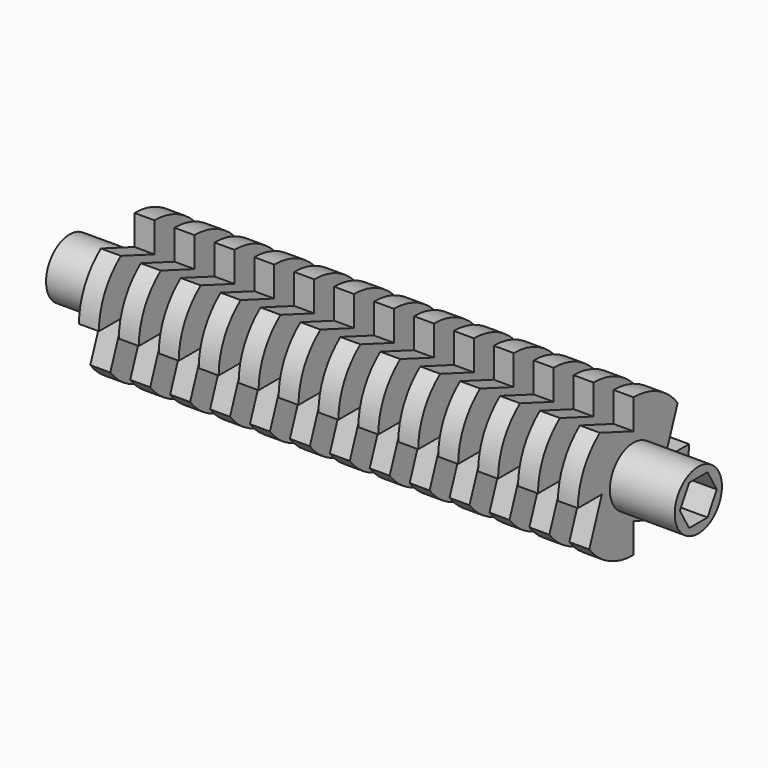
from build123d import *

# Parameters (mm, degrees)
F3_DEPTH = 25
F4_DEPTH = 250
F5_DEPTH = 22.8


with BuildPart() as f1:
    # F0 (on Top) → F1 (revolve)
    with BuildSketch(Plane.XY):
        Polygon((-41, 5.919), (-41, 0), (85, 0), (85, 5.911648), (72, 5.911648), (72, 13.919), (68, 13.919), (68, 5.919), (64, 5.919), (64, 13.919), (60, 13.919), (60, 5.919), (56, 5.919), (56, 13.919), (52, 13.919), (52, 5.919), (48, 5.919), (48, 13.919), (44, 13.919), (44, 5.919), (40, 5.919), (40, 13.919), (36, 13.919), (36, 5.919), (32, 5.919), (32, 13.919), (28, 13.919), (28, 5.919), (24, 5.919), (24, 13.919), (20, 13.919), (20, 5.919), (16, 5.919), (16, 13.919), (12, 13.919), (12, 5.919), (8, 5.919), (8, 13.919), (4, 13.919), (4, 5.919), (0, 5.919), (0, 13.919), (-4, 13.919), (-4, 5.919), (-8, 5.919), (-8, 13.919), (-12, 13.919), (-12, 5.919), (-16, 5.919), (-16, 13.919), (-20, 13.919), (-20, 5.919), (-24, 5.919001), (-24, 13.919), (-28, 13.919), (-28, 5.919), align=None)
    revolve(axis=Axis((22, 0, 0), (1, 0, 0)))

    # F2 (on face) → F3 (cut)
    with BuildSketch(Plane.YZ.offset(72)):
        Polygon((-2.309401, -4), (2.309401, -4), (4.618802, 0), (2.309401, 4), (-2.309401, 4), (-4.618802, 0), align=None)
    extrude(amount=F3_DEPTH, mode=Mode.SUBTRACT)

    # F2 (on face) → F4 (cut)
    with BuildSketch(Plane.YZ.offset(72)):
        with BuildLine():
            Line((0, 7.919), (0, 13.919))
            ThreePointArc((0, 13.919), (-4.446775, 13.18957), (-8.42748, 11.077732))
            Line((-8.42748, 11.077732), (0, 7.919))
        make_face()
        with BuildLine():
            ThreePointArc((13.919, 0), (13.18957, 4.446775), (11.077732, 8.42748))
            Line((11.077732, 8.42748), (7.919, 0))
            Line((7.919, 0), (13.919, 0))
        make_face()
        with BuildLine():
            ThreePointArc((0, -13.919), (4.446775, -13.18957), (8.42748, -11.077732))
            Line((8.42748, -11.077732), (0, -7.919))
            Line((0, -7.919), (0, -13.919))
        make_face()
        with BuildLine():
            Line((-7.919, 0), (-13.919, 0))
            ThreePointArc((-13.919, 0), (-13.18957, -4.446775), (-11.077732, -8.42748))
            Line((-11.077732, -8.42748), (-7.919, 0))
        make_face()
    extrude(amount=-F4_DEPTH, mode=Mode.SUBTRACT)

    # F2 (on face) → F5 (cut)
    with BuildSketch(Plane.YZ.offset(72)):
        Polygon((-2.309401, -4), (2.309401, -4), (4.618802, 0), (2.309401, 4), (-2.309401, 4), (-4.618802, 0), align=None)
    extrude(amount=F5_DEPTH, mode=Mode.SUBTRACT)


solid = f1.part
